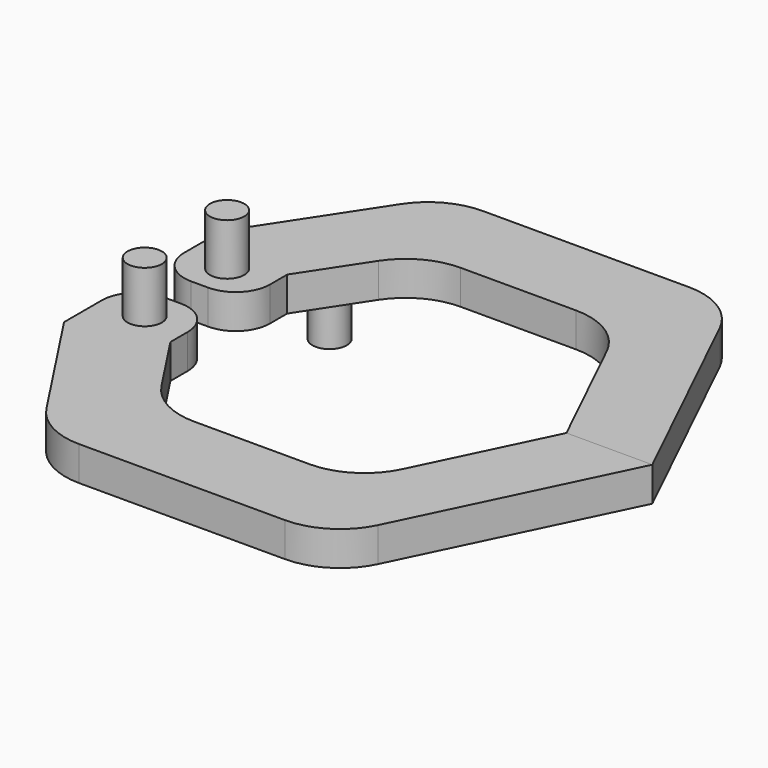
from build123d import *

# Parameters (mm, degrees)
F0_R     = 5
F1_DEPTH = 10
F2_DEPTH = 15
F3_DEPTH = 25
F9_R     = 10
F10_R    = 20


with BuildPart() as f1:
    # F0 (on Top) → F1 (new body)
    with BuildSketch(Plane.XY):
        Polygon((99.829165, -48.4956), (42.880688, -48.4956), (25, -21.263061), (25, -5), (0, -5), (0, -28.736939), (29.388212, -73.4956), (112.724133, -73.4956), (148.310796, 0), (123.310796, 0), align=None)
        with Locations((22.348891, -40)):
            Circle(F0_R, mode=Mode.SUBTRACT)
        with Locations((12.5, -15)):
            Circle(F0_R, mode=Mode.SUBTRACT)
        with Locations((22.348891, -40)):
            Circle(F0_R)
        with Locations((12.5, -15)):
            Circle(F0_R)
    extrude(amount=F1_DEPTH)

    # F0 (on Top) → F2 (join)
    with BuildSketch(Plane.XY):
        with Locations((22.348891, -40)):
            Circle(F0_R)
    extrude(amount=-F2_DEPTH)

    # F0 (on Top) → F3 (join)
    with BuildSketch(Plane.XY):
        with Locations((12.5, -15)):
            Circle(F0_R)
    extrude(amount=F3_DEPTH)

    # F9
    f9_edges = [f1.edges().sort_by_distance(p)[0] for p in [
        (0, -5, 5),
        (25, -5, 5),
    ]]
    fillet(f9_edges, radius=F9_R)

    # F10
    f10_edges = [f1.edges().sort_by_distance(p)[0] for p in [
        (42.880688, -48.4956, 5),
        (99.829165, -48.4956, 5),
        (29.388212, -73.4956, 5),
        (112.724133, -73.4956, 5),
    ]]
    fillet(f10_edges, radius=F10_R)


with BuildPart() as f4_1:
    # F4: copy of F1
    add(f1.part)


with BuildPart() as f6_1:
    # F6: instance of F1
    add(f1.part.mirror(Plane.XZ))


with BuildPart() as f7_1:
    # F7: copy of F6_1
    add(f6_1.part)


solid = Compound([f1.part, f6_1.part])
